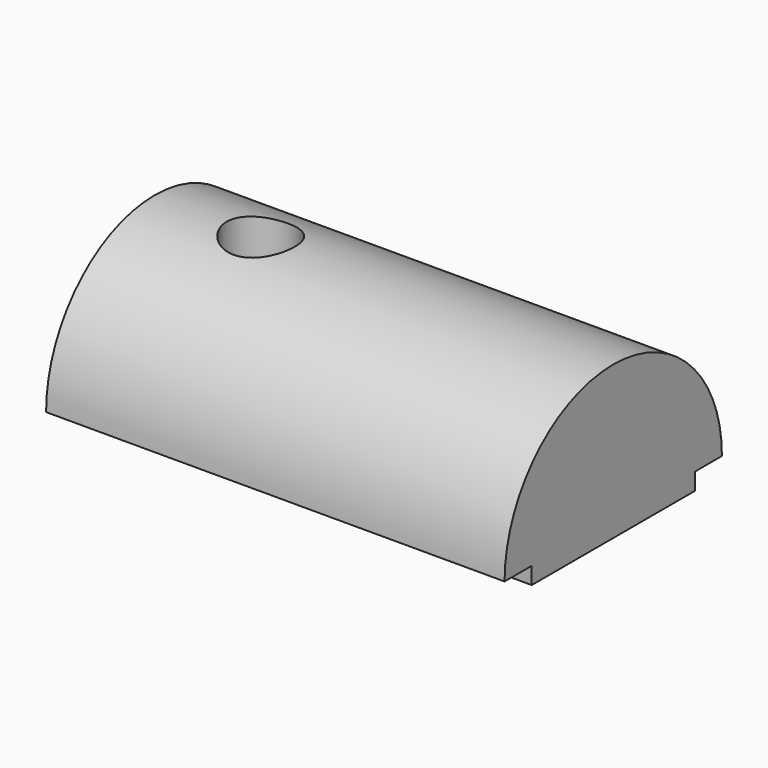
from build123d import *

# Parameters (mm, degrees)
CYLINDER001_R     = 1
CYLINDER001_DEPTH = 3.5
BOX_W             = 13.5
BOX_H             = 6
BOX_DEPTH         = 0.5
CYLINDER_W        = 4
CYLINDER_H        = 13.5
CYLINDER_ANGLE    = 180


with BuildPart() as cylinder001:
    # Cylinder001 → Cylinder001 (new body)
    with BuildSketch(Plane(origin=(3.12, 3, 1), x_dir=(1, 0, 0), z_dir=(0, 0, 1))):
        Circle(CYLINDER001_R)
    extrude(amount=CYLINDER001_DEPTH)


with BuildPart() as cube:
    # Box → Box (new body)
    with BuildSketch(Plane.XY):
        with Locations((6.75, 3)):
            Rectangle(BOX_W, BOX_H)
    extrude(amount=BOX_DEPTH)


with BuildPart() as obj1:
    # Cylinder → Cylinder (revolve)
    with BuildSketch(Plane(origin=(0, 3, 0.5), x_dir=(0, 1, 0), z_dir=(0, 0, -1))):
        with Locations((2, 6.75)):
            Rectangle(CYLINDER_W, CYLINDER_H)
    revolve(axis=Axis((0, 3, 0.5), (1, 0, 0)), revolution_arc=CYLINDER_ANGLE)

    # Fusion: union Cube
    add(cube.part)

    # Cut: cut Cylinder001
    add(cylinder001.part, mode=Mode.SUBTRACT)


solid = obj1.part
